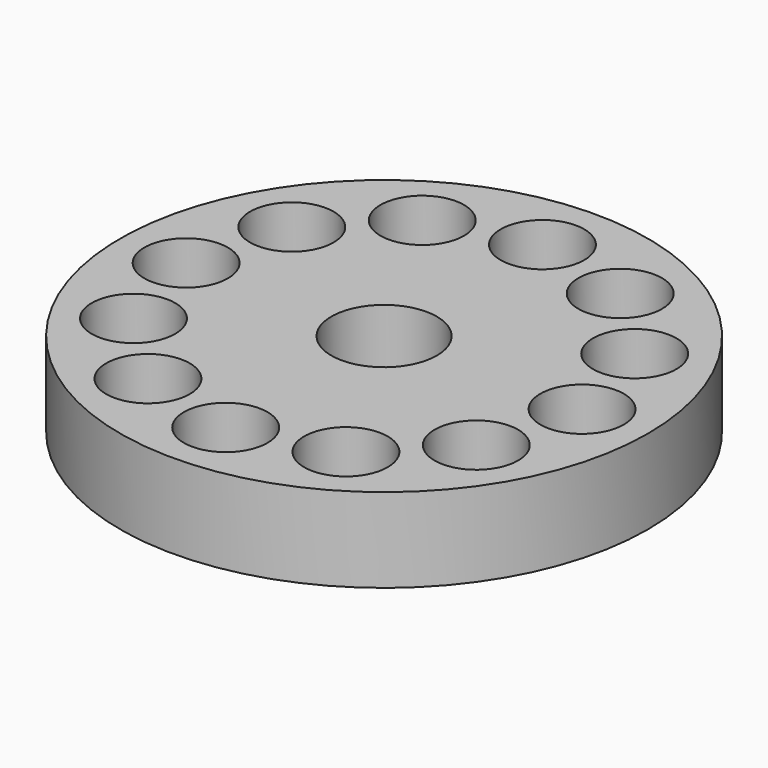
from build123d import *

# Parameters (mm, degrees)
F0_R     = 20
F0_R_2   = 3.165
F0_R_3   = 4
F1_DEPTH = 6.39


with BuildPart() as f1:
    # F0 (on Top) → F1 (new body)
    with BuildSketch(Plane.XY):
        Circle(F0_R)
        with Locations((-7.5, -12.990381)):
            Circle(F0_R_2, mode=Mode.SUBTRACT)
        with Locations((-12.990381, -7.5)):
            Circle(F0_R_2, mode=Mode.SUBTRACT)
        with Locations((0, -15)):
            Circle(F0_R_2, mode=Mode.SUBTRACT)
        with Locations((7.5, -12.990381)):
            Circle(F0_R_2, mode=Mode.SUBTRACT)
        with Locations((12.990381, -7.5)):
            Circle(F0_R_2, mode=Mode.SUBTRACT)
        with Locations((-15, 0)):
            Circle(F0_R_2, mode=Mode.SUBTRACT)
        with Locations((-12.990381, 7.5)):
            Circle(F0_R_2, mode=Mode.SUBTRACT)
        with Locations((-7.5, 12.990381)):
            Circle(F0_R_2, mode=Mode.SUBTRACT)
        Circle(F0_R_3, mode=Mode.SUBTRACT)
        with Locations((15, 0)):
            Circle(F0_R_2, mode=Mode.SUBTRACT)
        with Locations((12.990381, 7.5)):
            Circle(F0_R_2, mode=Mode.SUBTRACT)
        with Locations((7.5, 12.990381)):
            Circle(F0_R_2, mode=Mode.SUBTRACT)
        with Locations((0, 15)):
            Circle(F0_R_2, mode=Mode.SUBTRACT)
    extrude(amount=F1_DEPTH)


solid = f1.part
